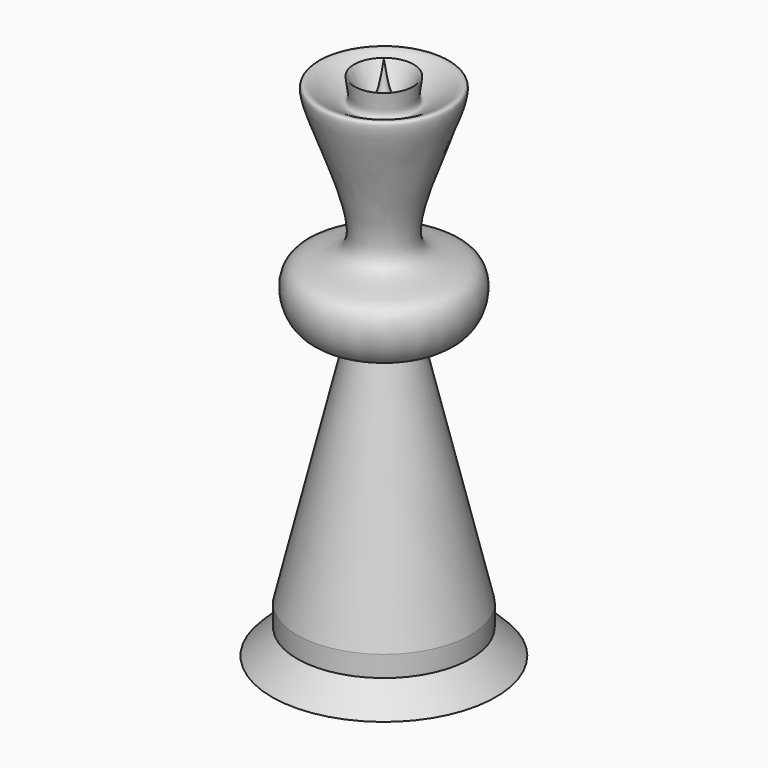
from build123d import *


with BuildPart() as f1:
    # F0 (on Front) → F1 (revolve)
    with BuildSketch(Plane.XZ):
        with BuildLine():
            Line((0, -40.7027639449), (0, 41.1679372191))
            add(Edge.make_bspline(
                [(-4.6517439187, 3.4888081718), (-7.2587771846, 3.6830219688), (-12.4446859688, 4.0693519204), (-13.8604919282, 15.1825423286), (1.7611525743, 11.849120673), (-16.041119246, 44.7792385095), (-2.8225861942, 32.1181533897), (-5.7662423326, 41.8667062712), (-1.3433134165, 32.0697759121), (-0.4735485701, 37.9606281696), (0, 41.1679372191)],
                knots=[0, 0, 0, 0, 0.1233658894, 0.2453993426, 0.3743981792, 0.5913053205, 0.7028529502, 0.7891196393, 0.8851849512, 1, 1, 1, 1], degree=3))
            Line((-4.6517439187, 3.4888081718), (-13.4900584817, -33.4925577044))
            Line((-13.4900584817, -33.4925577044), (-13.4900584817, -36.7487818003))
            Line((-13.4900584817, -36.7487818003), (-17.4440406263, -40.7027639449))
            Line((-17.4440406263, -40.7027639449), (0, -40.7027639449))
        make_face()
    revolve(axis=Axis((0, 0, 0.2325866371), (0, 0, -1)))


solid = f1.part
